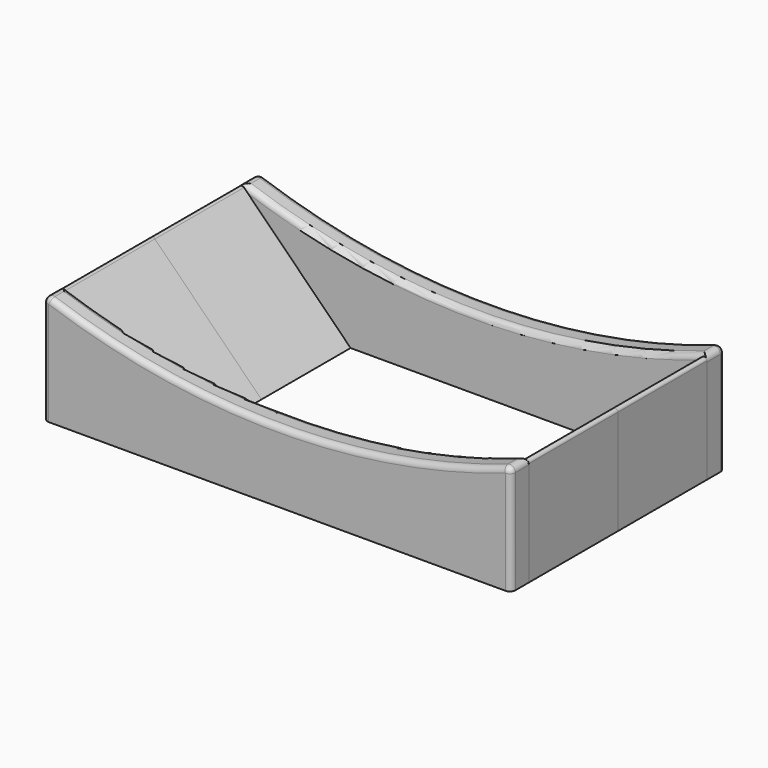
from build123d import *

# Parameters (mm, degrees)
F1_DEPTH = 20
F3_DEPTH = 4
F4_R     = 1
F5_R     = 0.5


with BuildPart() as f1:
    # F0 (on Front) → F1 (new body)
    with BuildSketch(Plane.XZ):
        Polygon((-42, 20), (-42, 0), (-22, 0), align=None)
        Polygon((42, 20), (22, 0), (42, 0), align=None)
    extrude(amount=-F1_DEPTH)

    # F5
    f5_edges = [f1.edges().sort_by_distance(p)[0] for p in [
        (42, 10, 20),
        (-42, 10, 20),
    ]]
    fillet(f5_edges, radius=F5_R)


with BuildPart() as f3:
    # F2 (on face) → F3 (new body)
    with BuildSketch(Plane(origin=(0, 20, 0), x_dir=(-1, 0, 0), z_dir=(0, 1, 0))):
        Polygon((-22, 0), (-42, 20), (-42, 0), align=None)
        with BuildLine():
            ThreePointArc((42, 20), (0, 12.750598), (-42, 20))
            Line((-42, 20), (-22, 0))
            Line((-22, 0), (42, 0))
            Line((42, 0), (42, 20))
        make_face()
    extrude(amount=F3_DEPTH)

    # F4
    f4_edges = [f3.edges().sort_by_distance(p)[0] for p in [
        (-42, 22, 20),
        (42, 22, 20),
        (0, 20, 12.750598),
        (0, 24, 12.750598),
        (42, 24, 10),
        (-42, 24, 10),
    ]]
    fillet(f4_edges, radius=F4_R)


with BuildPart() as f6_1:
    # F6: instance of F1
    add(f1.part.mirror(Plane.XZ))


with BuildPart() as f6_2:
    # F6: instance of F3
    add(f3.part.mirror(Plane.XZ))


solid = Compound([f1.part, f3.part, f6_1.part, f6_2.part])
